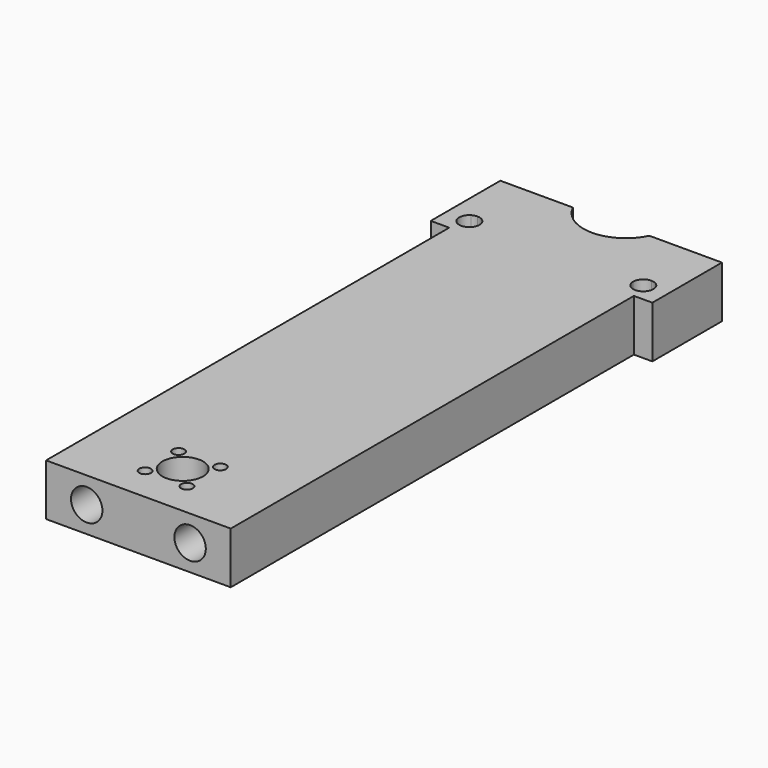
from build123d import *

# Parameters (mm, degrees)
F0_R     = 1.575
F0_R_2   = 5.5
F1_DEPTH = 14
F3_R     = 4.25
F4_DEPTH = 200
F5_W     = 5
F5_H     = 23.55
F6_DEPTH = 14
F7_DEPTH = 25


with BuildPart() as f1:
    # F0 (on Top) → F1 (new body)
    with BuildSketch(Plane.XY):
        with BuildLine():
            Line((-25, -15), (0, -15))
            Line((0, -15), (25, -15))
            Line((25, -15), (25, 0))
            Line((25, 0), (25, 124.1133357109))
            ThreePointArc((25, 124.1133357109), (22.2130258043, 124.0468770319), (20.8, 126.45))
            Line((20.8, 126.45), (-20.8, 126.45))
            ThreePointArc((-20.8, 126.45), (-22.2130258043, 124.0468770319), (-25, 124.1133357109))
            Line((-25, 124.1133357109), (-25, 0))
            Line((-25, 0), (-25, -15))
        make_face()
        with Locations((-5.657, -5.656855)):
            Circle(F0_R, mode=Mode.SUBTRACT)
        with Locations((-5.657, 5.656855)):
            Circle(F0_R, mode=Mode.SUBTRACT)
        with Locations((5.657, -5.656855)):
            Circle(F0_R, mode=Mode.SUBTRACT)
        Circle(F0_R_2, mode=Mode.SUBTRACT)
        with Locations((5.657, 5.656855)):
            Circle(F0_R, mode=Mode.SUBTRACT)
        with BuildLine():
            Line((-20.8, 126.45), (20.8, 126.45))
            ThreePointArc((20.8, 126.45), (21.6054563517, 128.3945436483), (23.55, 129.2))
            Line((23.55, 129.2), (23.55, 145))
            Line((23.55, 145), (10.3561575886, 145))
            ThreePointArc((10.3561575886, 145), (0, 138.5), (-10.3561575886, 145))
            Line((-10.3561575886, 145), (-23.55, 145))
            Line((-23.55, 145), (-23.55, 129.2))
            ThreePointArc((-23.55, 129.2), (-21.6054563517, 128.3945436483), (-20.8, 126.45))
        make_face()
        with BuildLine():
            Line((-25, 145), (-25, 128.7866642891))
            ThreePointArc((-25, 128.7866642891), (-24.3038810267, 129.0946480669), (-23.55, 129.2))
            Line((-23.55, 129.2), (-23.55, 145))
            Line((-23.55, 145), (-25, 145))
        make_face()
        with BuildLine():
            ThreePointArc((23.55, 129.2), (24.3038810267, 129.0946480669), (25, 128.7866642891))
            Line((25, 128.7866642891), (25, 145))
            Line((25, 145), (23.55, 145))
            Line((23.55, 145), (23.55, 129.2))
        make_face()
    extrude(amount=F1_DEPTH)

    # F3 (on offset) → F4 (cut)
    with BuildSketch(Plane.XZ.offset(15)):
        with Locations((-14, 7)):
            Circle(F3_R)
        with Locations((14, 7)):
            Circle(F3_R)
    extrude(amount=-F4_DEPTH, mode=Mode.SUBTRACT)

    # F5 (on Top) → F6 (join)
    with BuildSketch(Plane.XY):
        with Locations((27.5, 133.225)):
            Rectangle(F5_W, F5_H)
        with Locations((-27.5, 133.225)):
            Rectangle(F5_W, F5_H)
    extrude(amount=F6_DEPTH)

    # F0 (on Top) → F7 (cut)
    with BuildSketch(Plane.XY):
        with BuildLine():
            ThreePointArc((20.8, 126.45), (22.2130258043, 124.0468770319), (25, 124.1133357109))
            Line((25, 124.1133357109), (25, 128.7866642891))
            ThreePointArc((25, 128.7866642891), (24.3038810267, 129.0946480669), (23.55, 129.2))
            Line((23.55, 129.2), (23.55, 126.45))
            Line((23.55, 126.45), (20.8, 126.45))
        make_face()
        with BuildLine():
            Line((25, 128.7866642891), (25, 124.1133357109))
            ThreePointArc((25, 124.1133357109), (25.9531229681, 125.1130258043), (26.3, 126.45))
            ThreePointArc((26.3, 126.45), (25.9531229681, 127.7869741957), (25, 128.7866642891))
        make_face()
        with BuildLine():
            ThreePointArc((23.55, 129.2), (21.6054563517, 128.3945436483), (20.8, 126.45))
            Line((20.8, 126.45), (23.55, 126.45))
            Line((23.55, 126.45), (23.55, 129.2))
        make_face()
        with BuildLine():
            ThreePointArc((-25, 128.7866642891), (-26.3, 126.45), (-25, 124.1133357109))
            Line((-25, 124.1133357109), (-25, 128.7866642891))
        make_face()
        with BuildLine():
            Line((-25, 128.7866642891), (-25, 124.1133357109))
            ThreePointArc((-25, 124.1133357109), (-22.2130258043, 124.0468770319), (-20.8, 126.45))
            Line((-20.8, 126.45), (-23.55, 126.45))
            Line((-23.55, 126.45), (-23.55, 129.2))
            ThreePointArc((-23.55, 129.2), (-24.3038810267, 129.0946480669), (-25, 128.7866642891))
        make_face()
        with BuildLine():
            Line((-23.55, 126.45), (-20.8, 126.45))
            ThreePointArc((-20.8, 126.45), (-21.6054563517, 128.3945436483), (-23.55, 129.2))
            Line((-23.55, 129.2), (-23.55, 126.45))
        make_face()
    extrude(amount=F7_DEPTH, mode=Mode.SUBTRACT)


solid = f1.part
